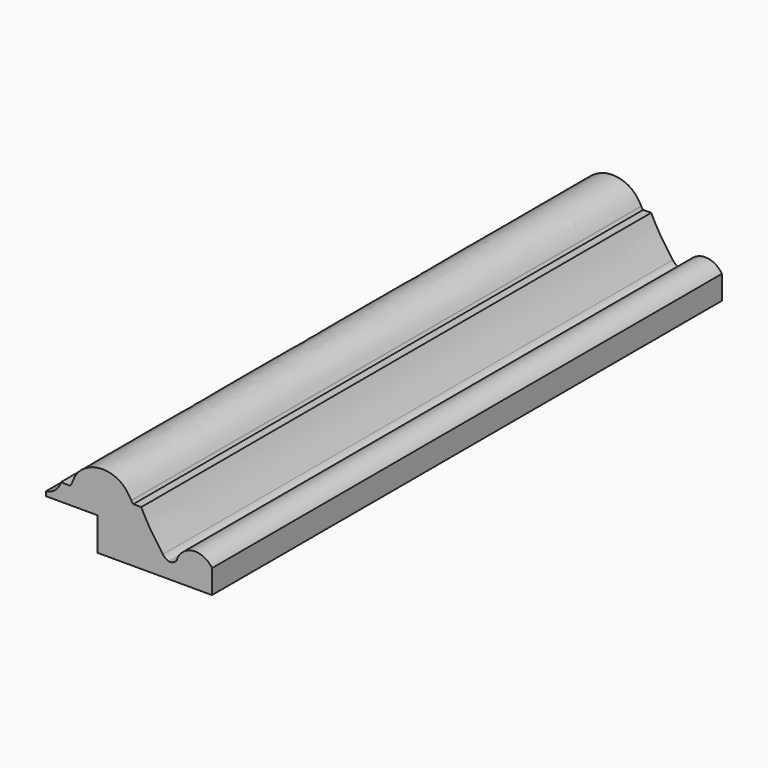
from build123d import *

# Parameters (mm, degrees)
F1_DEPTH = 152.4


with BuildPart() as f1:
    # F0 (on Front) → F1 (new body)
    with BuildSketch(Plane.XZ):
        with BuildLine():
            Line((19.8069084436, -8.9858053252), (19.8069084436, -3.3050309867))
            ThreePointArc((19.8069084436, -3.3050309867), (15.1571749594, -1.1601694518), (11.3104460761, -4.5399814844))
            ThreePointArc((11.3104460761, -4.5399814844), (10.6768926166, -5.0339136924), (9.9044738541, -5.2546584943))
            ThreePointArc((9.9044738541, -5.2546584943), (9.6477223228, -5.2611896565), (9.3920852396, -5.2364169572))
            ThreePointArc((9.3920852396, -5.2364169572), (8.6463683892, -4.8310441428), (8.0724013437, -4.2057581521))
            add(Edge.make_bspline(
                [(8.0724013437, -4.2057581521), (7.1608183543, -2.9820731576), (5.4553953519, -0.6927582389), (3.7498376037, 2.3114444577), (3.1517848724, 3.5266368089), (2.8978176415, 4.04267665)],
                knots=[0, 0, 0, 0, 0.3978364574, 0.7442870846, 1, 1, 1, 1], degree=3))
            Line((2.8978176415, 4.04267665), (0.9861707222, 4.04267665))
            ThreePointArc((0.9861707222, 4.04267665), (0.6954883956, 4.3283482369), (0.5304833176, 4.7010113485))
            add(Edge.make_bspline(
                [(-13.8320559636, 3.3332875464), (-13.5674155601, 4.0363823338), (-13.0394501992, 5.4390789769), (-11.6700154855, 7.2062381499), (-9.7749837374, 8.2678424283), (-8.4271019856, 8.8160107723), (-6.4968361444, 9.069198167), (-4.6682281269, 8.9286221591), (-2.1728174562, 8.0556916568), (-0.4038300984, 6.2511939782), (0.2272949359, 5.1780230401), (0.5304833176, 4.7010113485)],
                knots=[0, 0, 0, 0, 0.116063506, 0.2314435513, 0.3440206273, 0.4378725973, 0.5437407299, 0.6493453544, 0.7741412451, 0.8966638971, 1, 1, 1, 1], degree=3))
            ThreePointArc((-13.8320559636, 3.3332875464), (-14.0527709948, 3.1176038576), (-14.3472345712, 3.0252687028))
            Line((-14.3472345712, 3.0252687028), (-16.3451433182, 3.0252687028))
            Line((-16.3451433182, 3.0252687028), (-16.5500454605, 2.4251409341))
            ThreePointArc((-16.5500454605, 2.4251409341), (-17.6319559735, 0.9725096977), (-19.2390973375, 0.1371867043))
            Line((-19.2390973375, 0.1371867043), (-19.8597125709, 0))
            Line((-19.8597125709, 0), (-19.8597125709, -1.0821194155))
            Line((-19.8597125709, -1.0821194155), (-7.5102047995, -1.0821194155))
            Line((-7.5102047995, -1.0821194155), (-7.5102047995, -8.9858053252))
            Line((-7.5102047995, -8.9858053252), (19.8069084436, -8.9858053252))
        make_face()
    extrude(amount=F1_DEPTH)


solid = f1.part
